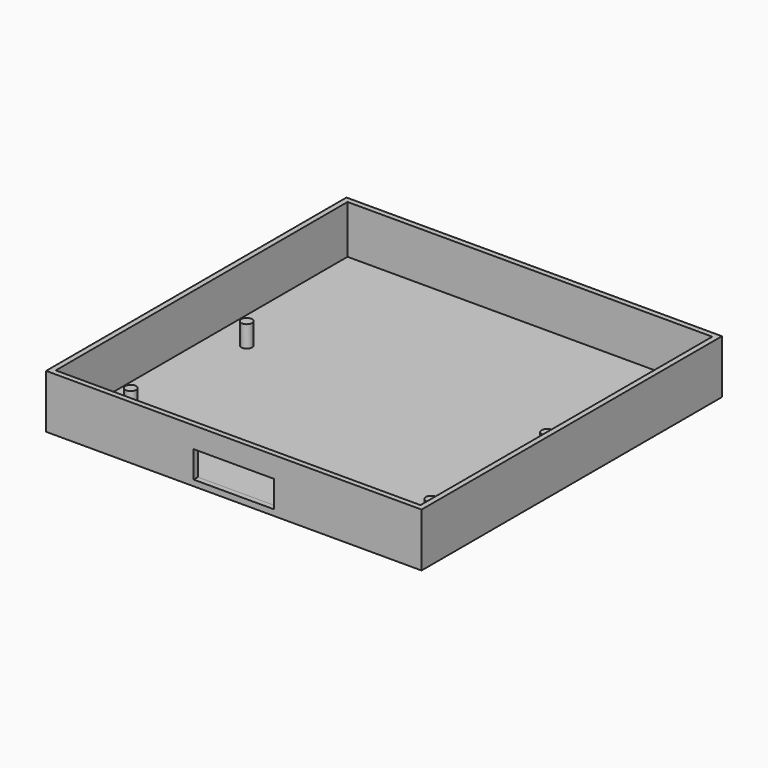
from build123d import *

# Parameters (mm, degrees)
F0_W     = 70
F0_H     = 70
F1_DEPTH = 1
F2_W     = 70
F2_H     = 70
F2_W_2   = 68
F2_H_2   = 68
F3_DEPTH = 9
F4_W     = 15
F4_H     = 5
F5_DEPTH = 1
F6_R     = 1
F7_DEPTH = 4


with BuildPart() as f1:
    # F0 (on Top) → F1 (new body)
    with BuildSketch(Plane.XY):
        with Locations((-35, 35)):
            Rectangle(F0_W, F0_H)
    extrude(amount=F1_DEPTH)

    # F2 (on face) → F3 (join)
    with BuildSketch(Plane.XY.offset(1)):
        with Locations((-35, 35)):
            Rectangle(F2_W, F2_H)
        with Locations((-35, 35)):
            Rectangle(F2_W_2, F2_H_2, mode=Mode.SUBTRACT)
    extrude(amount=F3_DEPTH)

    # F4 (on face) → F5 (cut)
    with BuildSketch(Plane.XZ):
        with Locations((-35, 3.6)):
            Rectangle(F4_W, F4_H)
    extrude(amount=-F5_DEPTH, mode=Mode.SUBTRACT)

    # F6 (on face) → F7 (join)
    with BuildSketch(Plane.XY.offset(1)):
        with Locations((-63, 38)):
            Circle(F6_R)
        with Locations((-7, 38)):
            Circle(F6_R)
        with Locations((-7, 11)):
            Circle(F6_R)
        with Locations((-63, 11)):
            Circle(F6_R)
    extrude(amount=F7_DEPTH)


solid = f1.part
